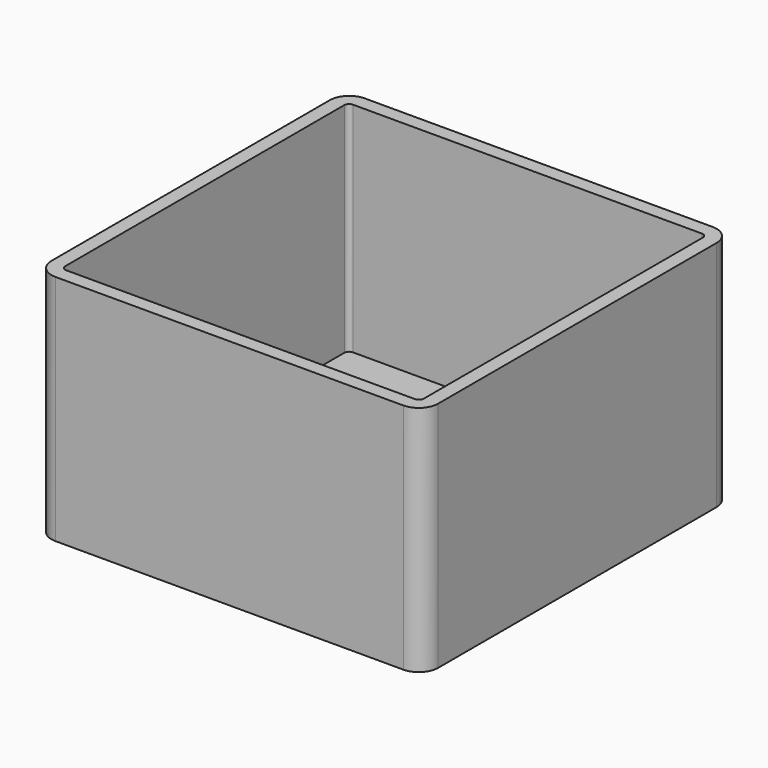
from build123d import *

# Parameters (mm, degrees)
F0_W     = 79.8
F0_H     = 79.8
F1_DEPTH = 48
F2_W     = 74
F2_H     = 74
F3_DEPTH = 45
F4_R     = 4
F5_R     = 1
F6_T     = -1


with BuildPart() as f1:
    # F0 (on Top) → F1 (new body)
    with BuildSketch(Plane.XY):
        Rectangle(F0_W, F0_H)
    extrude(amount=F1_DEPTH)

    # F2 (on face) → F3 (cut)
    with BuildSketch(Plane.XY.offset(48)):
        Rectangle(F2_W, F2_H)
    extrude(amount=-F3_DEPTH, mode=Mode.SUBTRACT)

    # F4
    f4_edges = [f1.edges().sort_by_distance(p)[0] for p in [
        (-39.9, -39.9, 24),
        (39.9, -39.9, 24),
        (39.9, 39.9, 24),
        (-39.9, 39.9, 24),
    ]]
    fillet(f4_edges, radius=F4_R)

    # F5
    f5_edges = [f1.edges().sort_by_distance(p)[0] for p in [
        (-37, -37, 25.5),
        (-37, 37, 25.5),
        (37, 37, 25.5),
        (37, -37, 25.5),
    ]]
    fillet(f5_edges, radius=F5_R)

    # F6
    f6_openings = [f1.faces().sort_by_distance(p)[0] for p in [
        (0, 0, 0),
    ]]
    offset(amount=F6_T, openings=f6_openings, kind=Kind.INTERSECTION)


solid = f1.part
